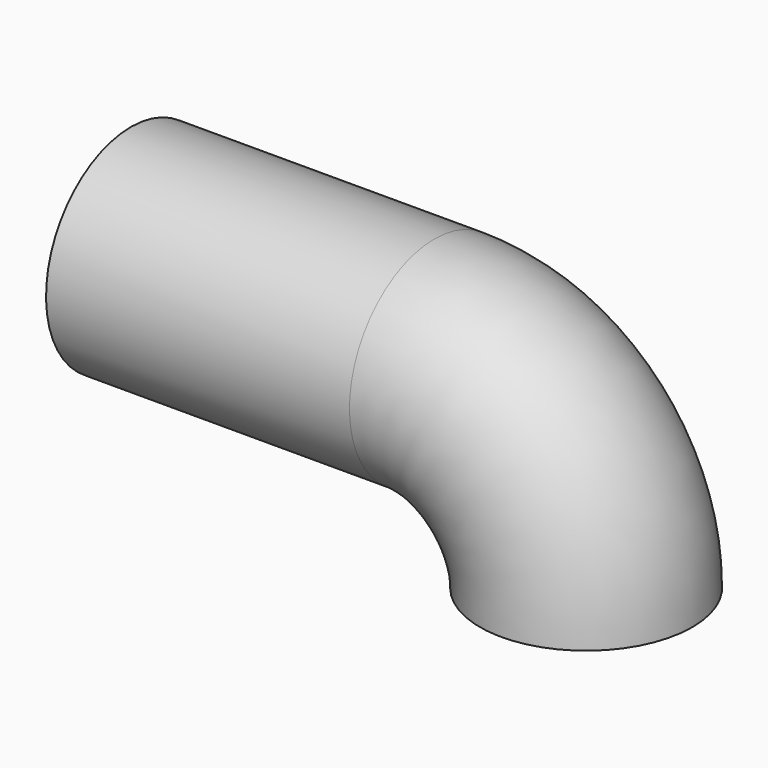
from build123d import *

# Parameters (mm, degrees)
F2_R   = 8.89
F2_R_2 = 5.969


with BuildPart() as f3:
    # F3: sweep along a path in F0
    with BuildLine(Plane.XZ) as f3_path:
        ThreePointArc((0, -12.7), (-3.7197438789, -3.7197438789), (-12.7, 0))
        Line((-12.7, 0), (-38.1, 0))
    # F2 (on line) → F3 (sweep)
    with BuildSketch(Plane.XY.offset(-12.7)):
        Circle(F2_R)
        Circle(F2_R_2, mode=Mode.SUBTRACT)
    sweep(path=f3_path.line)


solid = f3.part
